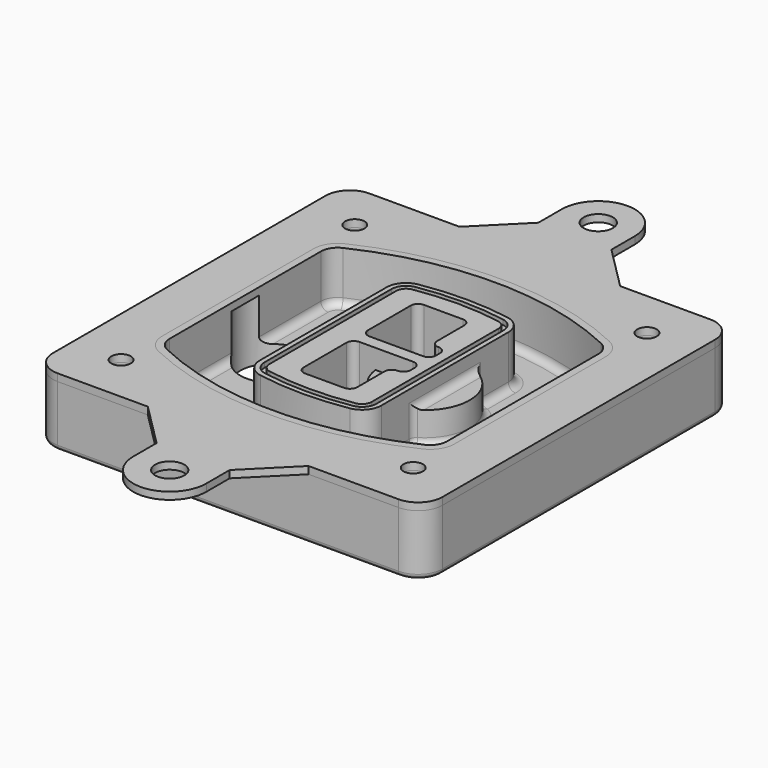
from build123d import *

# Parameters (mm, degrees)
F0_R      = 4
F1_DEPTH  = 25
F2_DEPTH  = 3
F3_DEPTH  = 18
F5_DEPTH  = 21
F6_DEPTH  = 2
F8_DEPTH  = 20
F9_DEPTH  = 16
F10_DEPTH = 25
F7_R      = 6
F7_R_2    = 4
F11_DEPTH = 6
F13_DEPTH = 9
F14_R     = 3
F15_R     = 2
F16_R     = 6
F16_R_2   = 4
F17_DEPTH = 3


with BuildPart() as f1:
    # F0 (on Top) → F1 (new body)
    with BuildSketch(Plane.XY):
        with BuildLine():
            ThreePointArc((-80, -70), (-77.0710678119, -77.0710678119), (-70, -80))
            Line((-70, -80), (70, -80))
            ThreePointArc((70, -80), (77.0710678119, -77.0710678119), (80, -70))
            Line((80, -70), (80, 70))
            ThreePointArc((80, 70), (77.0710678119, 77.0710678119), (70, 80))
            Line((70, 80), (-70, 80))
            ThreePointArc((-70, 80), (-77.0710678119, 77.0710678119), (-80, 70))
            Line((-80, 70), (-80, -70))
        make_face()
        with Locations((-60, -60)):
            Circle(F0_R, mode=Mode.SUBTRACT)
        with Locations((60, -60)):
            Circle(F0_R, mode=Mode.SUBTRACT)
        with Locations((-60, 60)):
            Circle(F0_R, mode=Mode.SUBTRACT)
        with BuildLine():
            ThreePointArc((-64, 38.8308515907), (-61.8195654598, 46.3340424013), (-55.9574468085, 51.5000594398))
            ThreePointArc((-55.9574468085, 51.5000594398), (0, 64), (55.9574468085, 51.5000594398))
            ThreePointArc((55.9574468085, 51.5000594398), (61.8195654598, 46.3340424013), (64, 38.8308515907))
            Line((64, 38.8308515907), (64, -38.8308515907))
            ThreePointArc((64, -38.8308515907), (61.8195654598, -46.3340424013), (55.9574468085, -51.5000594398))
            ThreePointArc((55.9574468085, -51.5000594398), (0, -64), (-55.9574468085, -51.5000594398))
            ThreePointArc((-55.9574468085, -51.5000594398), (-61.8195654598, -46.3340424013), (-64, -38.8308515907))
            Line((-64, -38.8308515907), (-64, 38.8308515907))
        make_face(mode=Mode.SUBTRACT)
        with Locations((60, 60)):
            Circle(F0_R, mode=Mode.SUBTRACT)
        with BuildLine():
            ThreePointArc((55.9574468085, 51.5000594398), (0, 64), (-55.9574468085, 51.5000594398))
            ThreePointArc((-55.9574468085, 51.5000594398), (-61.8195654598, 46.3340424013), (-64, 38.8308515907))
            Line((-64, 38.8308515907), (-64, -38.8308515907))
            ThreePointArc((-64, -38.8308515907), (-61.8195654598, -46.3340424013), (-55.9574468085, -51.5000594398))
            ThreePointArc((-55.9574468085, -51.5000594398), (0, -64), (55.9574468085, -51.5000594398))
            ThreePointArc((55.9574468085, -51.5000594398), (61.8195654598, -46.3340424013), (64, -38.8308515907))
            Line((64, -38.8308515907), (64, 38.8308515907))
            ThreePointArc((64, 38.8308515907), (61.8195654598, 46.3340424013), (55.9574468085, 51.5000594398))
        make_face()
        with BuildLine():
            Line((-60, -38.8308515907), (-60, 38.8308515907))
            ThreePointArc((-60, 38.8308515907), (-58.442546757, 44.1902735983), (-54.2553191489, 47.8802857686))
            ThreePointArc((-54.2553191489, 47.8802857686), (0, 60), (54.2553191489, 47.8802857686))
            ThreePointArc((54.2553191489, 47.8802857686), (58.442546757, 44.1902735983), (60, 38.8308515907))
            Line((60, 38.8308515907), (60, -38.8308515907))
            ThreePointArc((60, -38.8308515907), (58.442546757, -44.1902735983), (54.2553191489, -47.8802857686))
            ThreePointArc((54.2553191489, -47.8802857686), (0, -60), (-54.2553191489, -47.8802857686))
            ThreePointArc((-54.2553191489, -47.8802857686), (-58.442546757, -44.1902735983), (-60, -38.8308515907))
        make_face(mode=Mode.SUBTRACT)
        with BuildLine():
            ThreePointArc((-54.2553191489, 47.8802857686), (-58.442546757, 44.1902735983), (-60, 38.8308515907))
            Line((-60, 38.8308515907), (-60, -38.8308515907))
            ThreePointArc((-60, -38.8308515907), (-58.442546757, -44.1902735983), (-54.2553191489, -47.8802857686))
            ThreePointArc((-54.2553191489, -47.8802857686), (0, -60), (54.2553191489, -47.8802857686))
            ThreePointArc((54.2553191489, -47.8802857686), (58.442546757, -44.1902735983), (60, -38.8308515907))
            Line((60, -38.8308515907), (60, 38.8308515907))
            ThreePointArc((60, 38.8308515907), (58.442546757, 44.1902735983), (54.2553191489, 47.8802857686))
            ThreePointArc((54.2553191489, 47.8802857686), (0, 60), (-54.2553191489, 47.8802857686))
        make_face()
        with BuildLine():
            ThreePointArc((52.9787234043, 45.1654555152), (55.9097827299, 42.582446996), (57, 38.8308515907))
            Line((57, 38.8308515907), (57, -38.8308515907))
            ThreePointArc((57, -38.8308515907), (55.9097827299, -42.582446996), (52.9787234043, -45.1654555152))
            ThreePointArc((52.9787234043, -45.1654555152), (0, -57), (-52.9787234043, -45.1654555152))
            ThreePointArc((-52.9787234043, -45.1654555152), (-55.9097827299, -42.582446996), (-57, -38.8308515907))
            Line((-57, -38.8308515907), (-57, 38.8308515907))
            ThreePointArc((-57, 38.8308515907), (-55.9097827299, 42.582446996), (-52.9787234043, 45.1654555152))
            ThreePointArc((-52.9787234043, 45.1654555152), (0, 57), (52.9787234043, 45.1654555152))
        make_face(mode=Mode.SUBTRACT)
        with BuildLine():
            Line((57, -38.8308515907), (57, 38.8308515907))
            ThreePointArc((57, 38.8308515907), (55.9097827299, 42.582446996), (52.9787234043, 45.1654555152))
            ThreePointArc((52.9787234043, 45.1654555152), (0, 57), (-52.9787234043, 45.1654555152))
            ThreePointArc((-52.9787234043, 45.1654555152), (-55.9097827299, 42.582446996), (-57, 38.8308515907))
            Line((-57, 38.8308515907), (-57, -38.8308515907))
            ThreePointArc((-57, -38.8308515907), (-55.9097827299, -42.582446996), (-52.9787234043, -45.1654555152))
            ThreePointArc((-52.9787234043, -45.1654555152), (0, -57), (52.9787234043, -45.1654555152))
            ThreePointArc((52.9787234043, -45.1654555152), (55.9097827299, -42.582446996), (57, -38.8308515907))
        make_face()
    extrude(amount=-F1_DEPTH)

    # F0 (on Top) → F2 (join)
    with BuildSketch(Plane.XY):
        with BuildLine():
            ThreePointArc((-54.2553191489, 47.8802857686), (-58.442546757, 44.1902735983), (-60, 38.8308515907))
            Line((-60, 38.8308515907), (-60, -38.8308515907))
            ThreePointArc((-60, -38.8308515907), (-58.442546757, -44.1902735983), (-54.2553191489, -47.8802857686))
            ThreePointArc((-54.2553191489, -47.8802857686), (0, -60), (54.2553191489, -47.8802857686))
            ThreePointArc((54.2553191489, -47.8802857686), (58.442546757, -44.1902735983), (60, -38.8308515907))
            Line((60, -38.8308515907), (60, 38.8308515907))
            ThreePointArc((60, 38.8308515907), (58.442546757, 44.1902735983), (54.2553191489, 47.8802857686))
            ThreePointArc((54.2553191489, 47.8802857686), (0, 60), (-54.2553191489, 47.8802857686))
        make_face()
        with BuildLine():
            ThreePointArc((52.9787234043, 45.1654555152), (55.9097827299, 42.582446996), (57, 38.8308515907))
            Line((57, 38.8308515907), (57, -38.8308515907))
            ThreePointArc((57, -38.8308515907), (55.9097827299, -42.582446996), (52.9787234043, -45.1654555152))
            ThreePointArc((52.9787234043, -45.1654555152), (0, -57), (-52.9787234043, -45.1654555152))
            ThreePointArc((-52.9787234043, -45.1654555152), (-55.9097827299, -42.582446996), (-57, -38.8308515907))
            Line((-57, -38.8308515907), (-57, 38.8308515907))
            ThreePointArc((-57, 38.8308515907), (-55.9097827299, 42.582446996), (-52.9787234043, 45.1654555152))
            ThreePointArc((-52.9787234043, 45.1654555152), (0, 57), (52.9787234043, 45.1654555152))
        make_face(mode=Mode.SUBTRACT)
    extrude(amount=F2_DEPTH)

    # F0 (on Top) → F3 (cut)
    with BuildSketch(Plane.XY):
        with BuildLine():
            Line((57, -38.8308515907), (57, 38.8308515907))
            ThreePointArc((57, 38.8308515907), (55.9097827299, 42.582446996), (52.9787234043, 45.1654555152))
            ThreePointArc((52.9787234043, 45.1654555152), (0, 57), (-52.9787234043, 45.1654555152))
            ThreePointArc((-52.9787234043, 45.1654555152), (-55.9097827299, 42.582446996), (-57, 38.8308515907))
            Line((-57, 38.8308515907), (-57, -38.8308515907))
            ThreePointArc((-57, -38.8308515907), (-55.9097827299, -42.582446996), (-52.9787234043, -45.1654555152))
            ThreePointArc((-52.9787234043, -45.1654555152), (0, -57), (52.9787234043, -45.1654555152))
            ThreePointArc((52.9787234043, -45.1654555152), (55.9097827299, -42.582446996), (57, -38.8308515907))
        make_face()
    extrude(amount=-F3_DEPTH, mode=Mode.SUBTRACT)

    # F4 (on face) → F5 (join, through all)
    with BuildSketch(Plane.XY.offset(3)):
        with BuildLine():
            ThreePointArc((-25, -32.5662280692), (-23.1122504785, -37.7276614059), (-18.3399014778, -40.4532214146))
            ThreePointArc((-18.3399014778, -40.4532214146), (0, -42), (18.3399014778, -40.4532214146))
            ThreePointArc((18.3399014778, -40.4532214146), (23.1122504785, -37.7276614059), (25, -32.5662280692))
            Line((25, -32.5662280692), (25, 32.5662280692))
            ThreePointArc((25, 32.5662280692), (23.1122504785, 37.7276614059), (18.3399014778, 40.4532214146))
            ThreePointArc((18.3399014778, 40.4532214146), (0, 42), (-18.3399014778, 40.4532214146))
            ThreePointArc((-18.3399014778, 40.4532214146), (-23.1122504785, 37.7276614059), (-25, 32.5662280692))
            Line((-25, 32.5662280692), (-25, -32.5662280692))
        make_face()
        with BuildLine():
            ThreePointArc((18.0049261084, 38.4814730782), (21.5841878588, 36.4373030717), (23, 32.5662280692))
            Line((23, 32.5662280692), (23, -32.5662280692))
            ThreePointArc((23, -32.5662280692), (21.5841878588, -36.4373030717), (18.0049261084, -38.4814730782))
            ThreePointArc((18.0049261084, -38.4814730782), (0, -40), (-18.0049261084, -38.4814730782))
            ThreePointArc((-18.0049261084, -38.4814730782), (-21.5841878588, -36.4373030717), (-23, -32.5662280692))
            Line((-23, -32.5662280692), (-23, 32.5662280692))
            ThreePointArc((-23, 32.5662280692), (-21.5841878588, 36.4373030717), (-18.0049261084, 38.4814730782))
            ThreePointArc((-18.0049261084, 38.4814730782), (0, 40), (18.0049261084, 38.4814730782))
        make_face(mode=Mode.SUBTRACT)
        with BuildLine():
            Line((23, -32.5662280692), (23, 32.5662280692))
            ThreePointArc((23, 32.5662280692), (21.5841878588, 36.4373030717), (18.0049261084, 38.4814730782))
            ThreePointArc((18.0049261084, 38.4814730782), (0, 40), (-18.0049261084, 38.4814730782))
            ThreePointArc((-18.0049261084, 38.4814730782), (-21.5841878588, 36.4373030717), (-23, 32.5662280692))
            Line((-23, 32.5662280692), (-23, -32.5662280692))
            ThreePointArc((-23, -32.5662280692), (-21.5841878588, -36.4373030717), (-18.0049261084, -38.4814730782))
            ThreePointArc((-18.0049261084, -38.4814730782), (0, -40), (18.0049261084, -38.4814730782))
            ThreePointArc((18.0049261084, -38.4814730782), (21.5841878588, -36.4373030717), (23, -32.5662280692))
        make_face()
        with BuildLine():
            ThreePointArc((17.6699507389, 36.5097247419), (20.0561252392, 35.1469447375), (21, 32.5662280692))
            Line((21, 32.5662280692), (21, -32.5662280692))
            ThreePointArc((21, -32.5662280692), (20.0561252392, -35.1469447375), (17.6699507389, -36.5097247419))
            ThreePointArc((17.6699507389, -36.5097247419), (0, -38), (-17.6699507389, -36.5097247419))
            ThreePointArc((-17.6699507389, -36.5097247419), (-20.0561252392, -35.1469447375), (-21, -32.5662280692))
            Line((-21, -32.5662280692), (-21, 32.5662280692))
            ThreePointArc((-21, 32.5662280692), (-20.0561252392, 35.1469447375), (-17.6699507389, 36.5097247419))
            ThreePointArc((-17.6699507389, 36.5097247419), (0, 38), (17.6699507389, 36.5097247419))
        make_face(mode=Mode.SUBTRACT)
        with BuildLine():
            Line((21, -32.5662280692), (21, 32.5662280692))
            ThreePointArc((21, 32.5662280692), (20.0561252392, 35.1469447375), (17.6699507389, 36.5097247419))
            ThreePointArc((17.6699507389, 36.5097247419), (0, 38), (-17.6699507389, 36.5097247419))
            ThreePointArc((-17.6699507389, 36.5097247419), (-20.0561252392, 35.1469447375), (-21, 32.5662280692))
            Line((-21, 32.5662280692), (-21, -32.5662280692))
            ThreePointArc((-21, -32.5662280692), (-20.0561252392, -35.1469447375), (-17.6699507389, -36.5097247419))
            ThreePointArc((-17.6699507389, -36.5097247419), (0, -38), (17.6699507389, -36.5097247419))
            ThreePointArc((17.6699507389, -36.5097247419), (20.0561252392, -35.1469447375), (21, -32.5662280692))
        make_face()
        with BuildLine():
            Line((-8, -2.5), (14, -2.5))
            ThreePointArc((14, -2.5), (16.1213203436, -3.3786796564), (17, -5.5))
            Line((17, -5.5), (17, -7.5))
            ThreePointArc((17, -7.5), (16.1213203436, -9.6213203436), (14, -10.5))
            ThreePointArc((14, -10.5), (11.8786796564, -11.3786796564), (11, -13.5))
            Line((11, -13.5), (11, -27.5))
            ThreePointArc((11, -27.5), (10.1213203436, -29.6213203436), (8, -30.5))
            Line((8, -30.5), (-8, -30.5))
            ThreePointArc((-8, -30.5), (-10.1213203436, -29.6213203436), (-11, -27.5))
            Line((-11, -27.5), (-11, -5.5))
            ThreePointArc((-11, -5.5), (-10.1213203436, -3.3786796564), (-8, -2.5))
        make_face(mode=Mode.SUBTRACT)
        with BuildLine():
            ThreePointArc((-8, 2.5), (-10.1213203436, 3.3786796564), (-11, 5.5))
            Line((-11, 5.5), (-11, 27.5))
            ThreePointArc((-11, 27.5), (-10.1213203436, 29.6213203436), (-8, 30.5))
            Line((-8, 30.5), (8, 30.5))
            ThreePointArc((8, 30.5), (10.1213203436, 29.6213203436), (11, 27.5))
            Line((11, 27.5), (11, 13.5))
            ThreePointArc((11, 13.5), (11.8786796564, 11.3786796564), (14, 10.5))
            ThreePointArc((14, 10.5), (16.1213203436, 9.6213203436), (17, 7.5))
            Line((17, 7.5), (17, 5.5))
            ThreePointArc((17, 5.5), (16.1213203436, 3.3786796564), (14, 2.5))
            Line((14, 2.5), (-8, 2.5))
        make_face(mode=Mode.SUBTRACT)
    extrude(amount=-F5_DEPTH)

    # F4 (on face) → F6 (cut)
    with BuildSketch(Plane.XY.offset(3)):
        with BuildLine():
            Line((23, -32.5662280692), (23, 32.5662280692))
            ThreePointArc((23, 32.5662280692), (21.5841878588, 36.4373030717), (18.0049261084, 38.4814730782))
            ThreePointArc((18.0049261084, 38.4814730782), (0, 40), (-18.0049261084, 38.4814730782))
            ThreePointArc((-18.0049261084, 38.4814730782), (-21.5841878588, 36.4373030717), (-23, 32.5662280692))
            Line((-23, 32.5662280692), (-23, -32.5662280692))
            ThreePointArc((-23, -32.5662280692), (-21.5841878588, -36.4373030717), (-18.0049261084, -38.4814730782))
            ThreePointArc((-18.0049261084, -38.4814730782), (0, -40), (18.0049261084, -38.4814730782))
            ThreePointArc((18.0049261084, -38.4814730782), (21.5841878588, -36.4373030717), (23, -32.5662280692))
        make_face()
        with BuildLine():
            ThreePointArc((17.6699507389, 36.5097247419), (20.0561252392, 35.1469447375), (21, 32.5662280692))
            Line((21, 32.5662280692), (21, -32.5662280692))
            ThreePointArc((21, -32.5662280692), (20.0561252392, -35.1469447375), (17.6699507389, -36.5097247419))
            ThreePointArc((17.6699507389, -36.5097247419), (0, -38), (-17.6699507389, -36.5097247419))
            ThreePointArc((-17.6699507389, -36.5097247419), (-20.0561252392, -35.1469447375), (-21, -32.5662280692))
            Line((-21, -32.5662280692), (-21, 32.5662280692))
            ThreePointArc((-21, 32.5662280692), (-20.0561252392, 35.1469447375), (-17.6699507389, 36.5097247419))
            ThreePointArc((-17.6699507389, 36.5097247419), (0, 38), (17.6699507389, 36.5097247419))
        make_face(mode=Mode.SUBTRACT)
    extrude(amount=-F6_DEPTH, mode=Mode.SUBTRACT)

    # F7 (on face) → F8 (join)
    with BuildSketch(Plane(origin=(0, 0, -25), x_dir=(1, 0, 0), z_dir=(0, 0, -1))):
        with BuildLine():
            ThreePointArc((3.28842436, 0), (16.7567035675, 13.4682792075), (30.224982775, 0))
            Line((30.224982775, 0), (35.224982775, 0))
            ThreePointArc((35.224982775, 0), (16.7567035675, 18.4682792075), (-1.71157564, 0))
            Line((-1.71157564, 0), (3.28842436, 0))
        make_face()
        with BuildLine():
            Line((3.28842436, 0), (30.224982775, 0))
            ThreePointArc((30.224982775, 0), (16.7567035675, 13.4682792075), (3.28842436, 0))
        make_face()
        with BuildLine():
            ThreePointArc((3.28842436, 0), (16.7567035675, -13.4682792075), (30.224982775, 0))
            Line((30.224982775, 0), (3.28842436, 0))
        make_face()
        with BuildLine():
            Line((35.224982775, 0), (30.224982775, 0))
            ThreePointArc((30.224982775, 0), (16.7567035675, -13.4682792075), (3.28842436, 0))
            Line((3.28842436, 0), (-1.71157564, 0))
            ThreePointArc((-1.71157564, 0), (16.7567035675, -18.4682792075), (35.224982775, 0))
        make_face()
    extrude(amount=-F8_DEPTH)

    # F7 (on face) → F9 (cut)
    with BuildSketch(Plane(origin=(0, 0, -25), x_dir=(1, 0, 0), z_dir=(0, 0, -1))):
        with BuildLine():
            Line((3.28842436, 0), (30.224982775, 0))
            ThreePointArc((30.224982775, 0), (16.7567035675, 13.4682792075), (3.28842436, 0))
        make_face()
        with BuildLine():
            ThreePointArc((3.28842436, 0), (16.7567035675, -13.4682792075), (30.224982775, 0))
            Line((30.224982775, 0), (3.28842436, 0))
        make_face()
    extrude(amount=-F9_DEPTH, mode=Mode.SUBTRACT)

    # F7 (on face) → F10 (cut)
    with BuildSketch(Plane(origin=(0, 0, -25), x_dir=(1, 0, 0), z_dir=(0, 0, -1))):
        with BuildLine():
            Line((-59.0318229325, 0), (-32.0952645175, 0))
            ThreePointArc((-32.0952645175, 0), (-45.563543725, 13.4682792075), (-59.0318229325, 0))
        make_face()
        with BuildLine():
            ThreePointArc((-59.0318229325, 0), (-45.563543725, -13.4682792075), (-32.0952645175, 0))
            Line((-32.0952645175, 0), (-59.0318229325, 0))
        make_face()
    extrude(amount=-F10_DEPTH, mode=Mode.SUBTRACT)

    # F7 (on face) → F11 (cut)
    with BuildSketch(Plane(origin=(0, 0, -25), x_dir=(1, 0, 0), z_dir=(0, 0, -1))):
        with Locations((60, -60)):
            Circle(F7_R)
        with Locations((60, -60)):
            Circle(F7_R_2, mode=Mode.SUBTRACT)
        with Locations((60, -60)):
            Circle(F7_R)
        with Locations((60, -60)):
            Circle(F7_R_2, mode=Mode.SUBTRACT)
        with Locations((-60, -60)):
            Circle(F7_R)
        with Locations((-60, -60)):
            Circle(F7_R_2, mode=Mode.SUBTRACT)
        with Locations((-60, -60)):
            Circle(F7_R)
        with Locations((-60, -60)):
            Circle(F7_R_2, mode=Mode.SUBTRACT)
        with Locations((-60, 60)):
            Circle(F7_R)
        with Locations((-60, 60)):
            Circle(F7_R_2, mode=Mode.SUBTRACT)
        with Locations((-60, 60)):
            Circle(F7_R)
        with Locations((-60, 60)):
            Circle(F7_R_2, mode=Mode.SUBTRACT)
        with Locations((60, 60)):
            Circle(F7_R)
        with Locations((60, 60)):
            Circle(F7_R_2, mode=Mode.SUBTRACT)
        with Locations((60, 60)):
            Circle(F7_R)
        with Locations((60, 60)):
            Circle(F7_R_2, mode=Mode.SUBTRACT)
    extrude(amount=-F11_DEPTH, mode=Mode.SUBTRACT)

    # F12 (on face) → F13 (cut, through all)
    with BuildSketch(Plane(origin=(0, 0, -9), x_dir=(1, 0, 0), z_dir=(0, 0, -1))):
        with BuildLine():
            Line((11, 13.5), (11, 17.5481537753))
            ThreePointArc((11, 17.5481537753), (2.5696536419, 11.8239143813), (-1.5415842455, 2.5))
            Line((-1.5415842455, 2.5), (3.5224848595, 2.5))
            ThreePointArc((3.5224848595, 2.5), (6.1857188154, 8.3455872281), (11.2536447004, 12.2927168648))
            ThreePointArc((11.2536447004, 12.2927168648), (11.0640958889, 12.8831798879), (11, 13.5))
        make_face()
        with BuildLine():
            ThreePointArc((11.2536447004, -12.2927168648), (6.1857188154, -8.3455872281), (3.5224848595, -2.5))
            Line((3.5224848595, -2.5), (-1.5415842455, -2.5))
            ThreePointArc((-1.5415842455, -2.5), (2.5696536419, -11.8239143813), (11, -17.5481537753))
            Line((11, -17.5481537753), (11, -13.5))
            ThreePointArc((11, -13.5), (11.0640958889, -12.8831798879), (11.2536447004, -12.2927168648))
        make_face()
        with BuildLine():
            ThreePointArc((11.2536447004, 12.2927168648), (6.1857188154, 8.3455872281), (3.5224848595, 2.5))
            Line((3.5224848595, 2.5), (14, 2.5))
            ThreePointArc((14, 2.5), (16.1213203436, 3.3786796564), (17, 5.5))
            Line((17, 5.5), (17, 7.5))
            ThreePointArc((17, 7.5), (16.1213203436, 9.6213203436), (14, 10.5))
            ThreePointArc((14, 10.5), (12.3601599782, 10.9878446101), (11.2536447004, 12.2927168648))
        make_face()
        with BuildLine():
            Line((14, -2.5), (3.5224848595, -2.5))
            ThreePointArc((3.5224848595, -2.5), (6.1857188154, -8.3455872281), (11.2536447004, -12.2927168648))
            ThreePointArc((11.2536447004, -12.2927168648), (12.3601599782, -10.9878446101), (14, -10.5))
            ThreePointArc((14, -10.5), (16.1213203436, -9.6213203436), (17, -7.5))
            Line((17, -7.5), (17, -5.5))
            ThreePointArc((17, -5.5), (16.1213203436, -3.3786796564), (14, -2.5))
        make_face()
    extrude(amount=F13_DEPTH, mode=Mode.SUBTRACT)

    # F14
    f14_edges = [f1.edges().sort_by_distance(p)[0] for p in [
        (-57, -22.97218, -18),
        (-57, 22.97218, -18),
        (25, 0, -5),
        (25, 16.526506, -11.5),
        (25, -16.526506, -11.5),
        (25, -24.546367, -18),
        (35.224983, 0, -18),
    ]]
    fillet(f14_edges, radius=F14_R)

    # F15
    f15_edges = [f1.edges().sort_by_distance(p)[0] for p in [
        (0, -80, -25),
    ]]
    fillet(f15_edges, radius=F15_R)


with BuildPart() as f17:
    # F16 (on face) → F17 (new body, through all)
    with BuildSketch(Plane.XY):
        with BuildLine():
            Line((-15, 98), (-33, 80))
            Line((-33, 80), (33, 80))
            Line((33, 80), (15, 98))
            Line((15, 98), (15, 110))
            ThreePointArc((15, 110), (0, 125), (-15, 110))
            Line((-15, 110), (-15, 98))
        make_face()
        with Locations((0, 110)):
            Circle(F16_R, mode=Mode.SUBTRACT)
        with BuildLine():
            Line((33, 80), (-33, 80))
            Line((-33, 80), (-70, 80))
            ThreePointArc((-70, 80), (-77.0710678119, 77.0710678119), (-80, 70))
            Line((-80, 70), (-80, -70))
            ThreePointArc((-80, -70), (-77.0710678119, -77.0710678119), (-70, -80))
            Line((-70, -80), (-33, -80))
            Line((-33, -80), (33, -80))
            Line((33, -80), (70, -80))
            ThreePointArc((70, -80), (77.0710678119, -77.0710678119), (80, -70))
            Line((80, -70), (80, 70))
            ThreePointArc((80, 70), (77.0710678119, 77.0710678119), (70, 80))
            Line((70, 80), (33, 80))
        make_face()
        with Locations((-60, -60)):
            Circle(F16_R_2, mode=Mode.SUBTRACT)
        with Locations((60, -60)):
            Circle(F16_R_2, mode=Mode.SUBTRACT)
        with Locations((-60, 60)):
            Circle(F16_R_2, mode=Mode.SUBTRACT)
        with BuildLine():
            ThreePointArc((-60, 38.8308515907), (-58.442546757, 44.1902735983), (-54.2553191489, 47.8802857686))
            ThreePointArc((-54.2553191489, 47.8802857686), (0, 60), (54.2553191489, 47.8802857686))
            ThreePointArc((54.2553191489, 47.8802857686), (58.442546757, 44.1902735983), (60, 38.8308515907))
            Line((60, 38.8308515907), (60, -38.8308515907))
            ThreePointArc((60, -38.8308515907), (58.442546757, -44.1902735983), (54.2553191489, -47.8802857686))
            ThreePointArc((54.2553191489, -47.8802857686), (0, -60), (-54.2553191489, -47.8802857686))
            ThreePointArc((-54.2553191489, -47.8802857686), (-58.442546757, -44.1902735983), (-60, -38.8308515907))
            Line((-60, -38.8308515907), (-60, 38.8308515907))
        make_face(mode=Mode.SUBTRACT)
        with Locations((60, 60)):
            Circle(F16_R_2, mode=Mode.SUBTRACT)
        with BuildLine():
            Line((33, -80), (-33, -80))
            Line((-33, -80), (-15, -98))
            Line((-15, -98), (-15, -110))
            ThreePointArc((-15, -110), (0, -125), (15, -110))
            Line((15, -110), (15, -98))
            Line((15, -98), (33, -80))
        make_face()
        with Locations((0, -110)):
            Circle(F16_R, mode=Mode.SUBTRACT)
    extrude(amount=F17_DEPTH)


solid = Compound([f1.part, f17.part])
